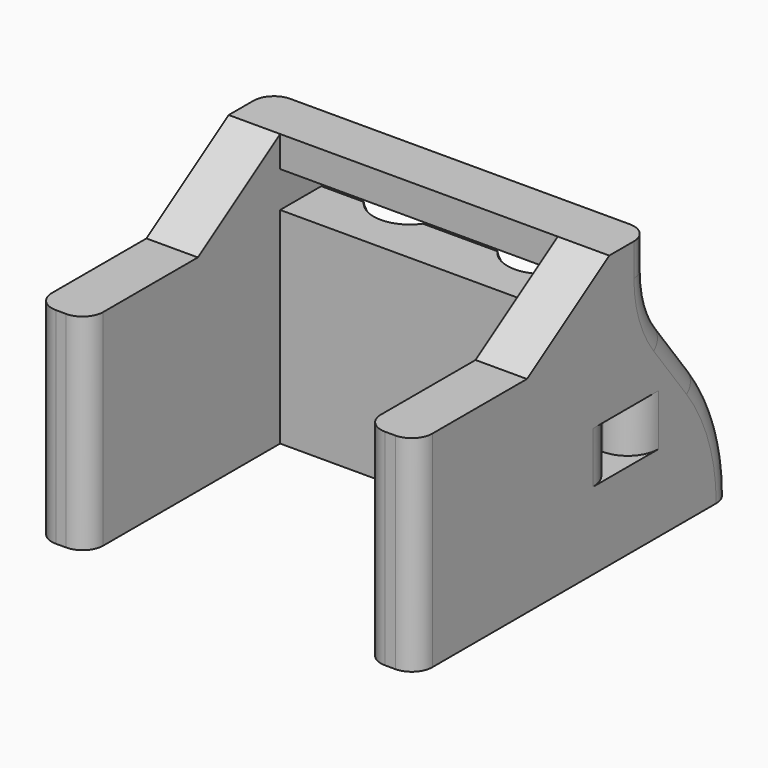
from build123d import *

# Parameters (mm, degrees)
PAD_DEPTH            = 20
SKETCH001_W          = 37
SKETCH001_H          = 5
PAD001_DEPTH         = 6.5
SKETCH003_W          = 27
SKETCH003_H          = 28.5
POCKET001_DEPTH      = 3.5
SKETCH004_R          = 1.65
POCKET002_DEPTH      = 20.001
SKETCH005_R          = 3.5
POCKET003_DEPTH      = 14.5
POCKET004_DEPTH      = 18.501
POCKET004_DEPTH_BACK = -18.501
PAD002_DEPTH         = 18.5
POCKET_DEPTH         = 13.5
SKETCH008_W          = 2
SKETCH008_H          = 5
POCKET005_DEPTH      = 18.501
POCKET005_DEPTH_BACK = -18.501
FILLET_R             = 3
FILLET001_R          = 9.99
FILLET002_R          = 19.99
FILLET003_R          = 2


with BuildPart() as part:
    # Sketch → Pad (new body)
    with BuildSketch(Plane.XY):
        Polygon((-18.5, 0), (-18.5, 38.5), (18.5, 38.5), (18.5, 0), (13.5, 0), (13.5, 23.5), (-13.5, 23.5), (-13.5, 0), align=None)
    extrude(amount=-PAD_DEPTH)

    # Sketch001 → Pad001 (join)
    with BuildSketch(Plane.XY):
        with Locations((0, 26)):
            Rectangle(SKETCH001_W, SKETCH001_H)
    extrude(amount=PAD001_DEPTH)

    # Sketch003 → Pocket001 (cut)
    with BuildSketch(Plane.XY):
        with Locations((0, 14.25)):
            Rectangle(SKETCH003_W, SKETCH003_H)
    extrude(amount=POCKET001_DEPTH, mode=Mode.SUBTRACT)

    # Sketch004 → Pocket002 (cut, through all)
    with BuildSketch(Plane.XY):
        with Locations((-6.5, 30.5)):
            Circle(SKETCH004_R)
        with Locations((6.5, 30.5)):
            Circle(SKETCH004_R)
    extrude(amount=-POCKET002_DEPTH, mode=Mode.SUBTRACT)

    # Sketch005 → Pocket003 (cut)
    with BuildSketch(Plane.XY):
        with Locations((-6.5, 30.5)):
            Circle(SKETCH005_R)
        with Locations((6.5, 30.5)):
            Circle(SKETCH005_R)
    extrude(amount=-POCKET003_DEPTH, mode=Mode.SUBTRACT)

    # Sketch006 → Pocket004 (cut, two sides)
    with BuildSketch(Plane.YZ) as pocket004_sk:
        Polygon((28.5, 0), (43.5, 0), (43.5, -20), align=None)
    extrude(amount=-POCKET004_DEPTH, mode=Mode.SUBTRACT)
    extrude(pocket004_sk.sketch, amount=-POCKET004_DEPTH_BACK, mode=Mode.SUBTRACT)

    # Sketch007 → Pad002 (join, symmetric)
    with BuildSketch(Plane.YZ):
        Polygon((13.5, 0), (23.5, 0), (23.5, 6.5), align=None)
    extrude(amount=PAD002_DEPTH, both=True)

    # Sketch007 → Pocket (cut, symmetric)
    with BuildSketch(Plane.YZ):
        Polygon((13.5, 0), (23.5, 0), (23.5, 6.5), align=None)
    extrude(amount=POCKET_DEPTH, both=True, mode=Mode.SUBTRACT)

    # Sketch008 → Pocket005 (cut, two sides)
    with BuildSketch(Plane.YZ) as pocket005_sk:
        with Locations((25.5, -10)):
            Rectangle(SKETCH008_W, SKETCH008_H)
    extrude(amount=-POCKET005_DEPTH, mode=Mode.SUBTRACT)
    extrude(pocket005_sk.sketch, amount=-POCKET005_DEPTH_BACK, mode=Mode.SUBTRACT)

    # Fillet
    fillet_edges = [part.edges().sort_by_distance(p)[0] for p in [
        (18.5, 24.5, -10),
        (-18.5, 24.5, -10),
        (18.5, 26.5, -10),
        (-18.5, 26.5, -10),
    ]]
    fillet(fillet_edges, radius=FILLET_R)

    # Fillet001
    fillet001_edges = [part.edges().sort_by_distance(p)[0] for p in [
        (16, 28.5, 0),
        (-16, 28.5, 0),
    ]]
    fillet(fillet001_edges, radius=FILLET001_R)

    # Fillet002
    fillet002_edges = [part.edges().sort_by_distance(p)[0] for p in [
        (0, 38.5, -13.333333),
    ]]
    fillet(fillet002_edges, radius=FILLET002_R)

    # Fillet003
    fillet003_edges = [part.edges().sort_by_distance(p)[0] for p in [
        (18.5, 37.474179, -13.675274),
        (-18.5, 37.474179, -13.675274),
        (18.5, 0, -10),
        (13.5, 0, -10),
        (-13.5, 0, -10),
        (-18.5, 0, -10),
    ]]
    fillet(fillet003_edges, radius=FILLET003_R)


solid = part.part
